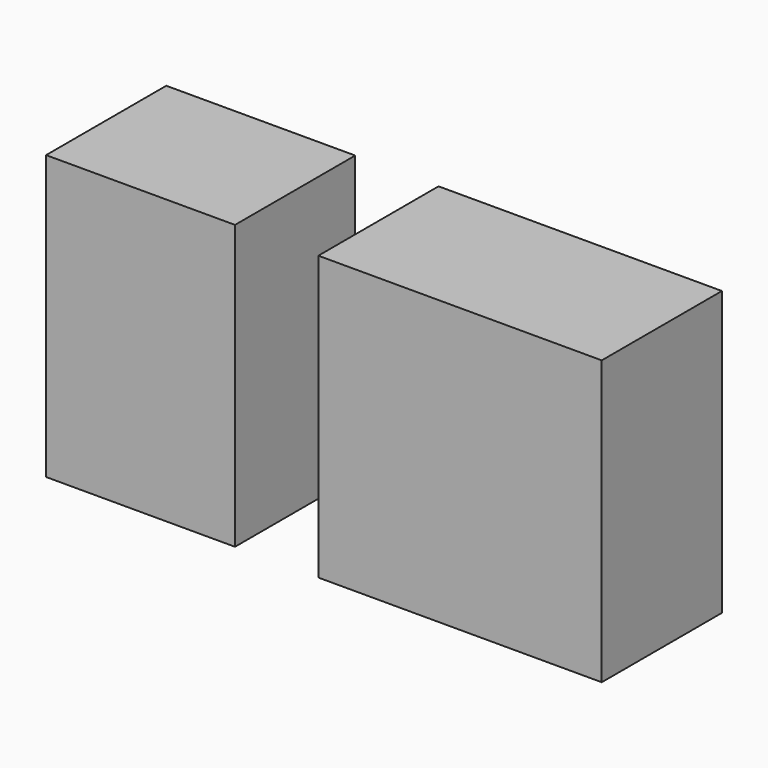
from build123d import *

# Parameters (mm, degrees)
F0_W     = 254
F0_H     = 201.987446
F0_W_2   = 381
F1_DEPTH = 381


with BuildPart() as f1:
    # F0 (on Top) → F1 (new body)
    with BuildSketch(Plane.XY):
        with Locations((-419.977341, 0)):
            Rectangle(F0_W, F0_H)
        with Locations((9.572864, 0)):
            Rectangle(F0_W_2, F0_H)
    extrude(amount=F1_DEPTH)


solid = f1.part
